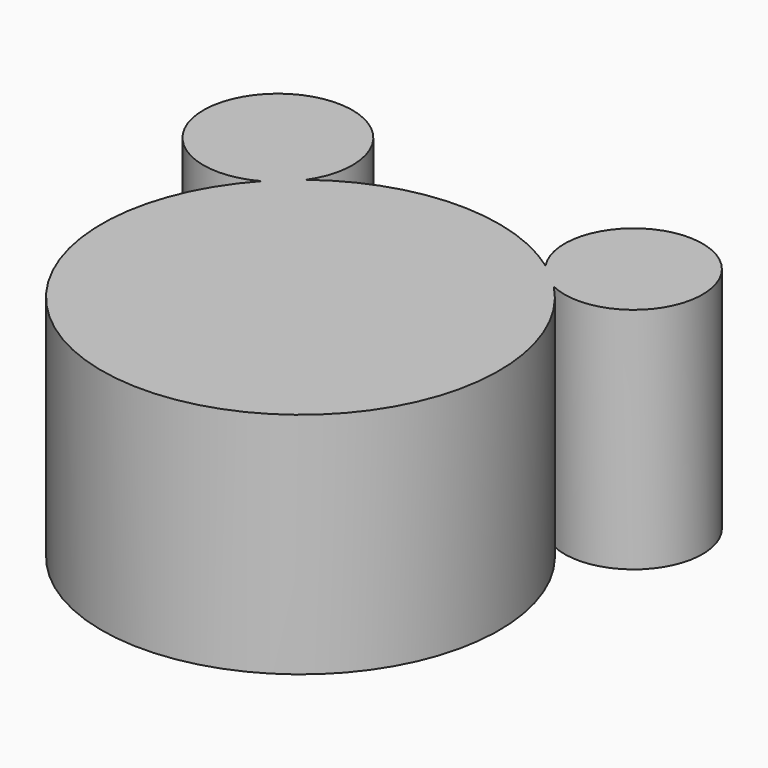
from build123d import *

# Parameters (mm, degrees)
F0_R       = 51.4602695285
F1_DEPTH   = 25.4
F2_DEPTH   = 28.956
F3_R       = 17.858664642
F3_R_2     = 19.3013042732
F1_FACE1_R = 51.4602695285
F4_DEPTH   = 59.182
F5_R       = 8.4878937559
F6_DEPTH   = 35.5


with BuildPart() as f1:
    # F0 (on Top) → F1 (new body)
    with BuildSketch(Plane.XY):
        Circle(F0_R)
    extrude(amount=F1_DEPTH)

    # F2 (add): a face of the model
    f2_faces = [f1.faces().sort_by_distance(p)[0] for p in [
        (0, 0, 25.4),
    ]]
    extrude(f2_faces, amount=F2_DEPTH)

    # F3 (on Top) + F1_face1 (on face) → F4 (join)
    with BuildSketch(Plane.XY):
        with Locations((44.8872148991, 51.7368838191)):
            Circle(F3_R)
        with Locations((-47.2190156579, 51.7368838191)):
            Circle(F3_R_2)
    with BuildSketch(Plane(origin=(0, 0, 0), x_dir=(1, 0, 0), z_dir=(0, 0, -1))):
        Circle(F1_FACE1_R)
    extrude(amount=F4_DEPTH, dir=(0, 0, 1))

    # F5 (on Top) → F6 (cut)
    with BuildSketch(Plane.XY):
        with Locations((-37.1631160378, 0)):
            Circle(F5_R)
        with Locations((-26.2782913604, 26.2782913604)):
            Circle(F5_R)
        with Locations((0, 37.1631160378)):
            Circle(F5_R)
        with Locations((26.2782913604, 26.2782913604)):
            Circle(F5_R)
        with Locations((37.1631160378, 0)):
            Circle(F5_R)
        with Locations((26.2782913604, -26.2782913604)):
            Circle(F5_R)
        with Locations((0, -37.1631160378)):
            Circle(F5_R)
        with Locations((-26.2782913604, -26.2782913604)):
            Circle(F5_R)
    extrude(amount=F6_DEPTH, mode=Mode.SUBTRACT)


solid = f1.part
